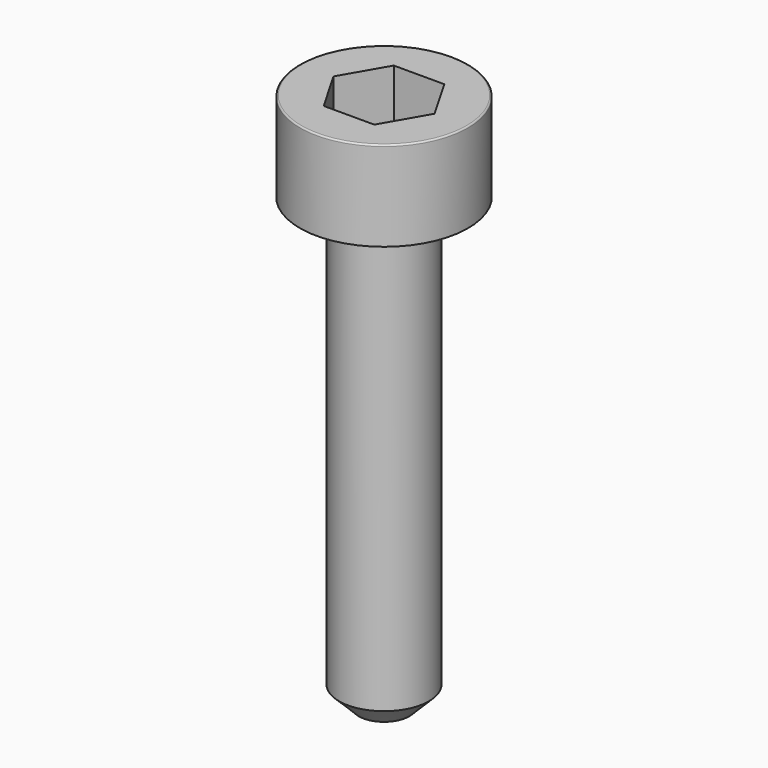
from build123d import *

# Parameters (mm, degrees)
POCKET_DEPTH = 1.56


with BuildPart() as part:
    # Sketch → Revolve (revolve)
    with BuildSketch(Plane.YZ):
        with BuildLine():
            Line((0.799, 0), (1.5, 0))
            Line((1.5, 0), (1.5, 1.57229))
            ThreePointArc((1.5, 1.57229), (1.491884, 1.591884), (1.47229, 1.6))
            Line((1.47229, 1.6), (0, 1.6))
            Line((0, -8), (0, 1.6))
            Line((0.45, -8), (0, -8))
            Line((0.8, -7.65), (0.45, -8))
            Line((0.8, -0.2), (0.8, -7.65))
            Line((0.799, 0), (0.8, -0.2))
        make_face()
    revolve(axis=Axis((0, 0, 0), (0, 0, 1)))

    # Sketch001 → Pocket (cut)
    with BuildSketch(Plane.XY.offset(1.6)):
        Polygon((0.900666, 0), (0.450333, 0.78), (-0.450333, 0.78), (-0.900666, 0), (-0.450333, -0.78), (0.450333, -0.78), align=None)
    extrude(amount=-POCKET_DEPTH, mode=Mode.SUBTRACT)


solid = part.part
